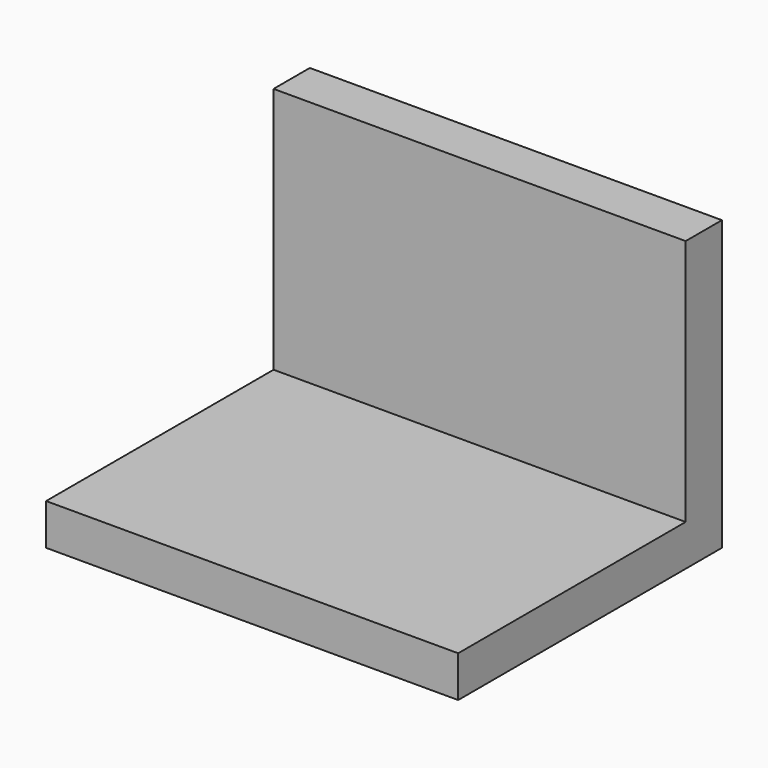
from build123d import *

# Parameters (mm, degrees)
F0_W     = 50
F0_H     = 5
F1_DEPTH = 40
F2_W     = 50
F2_H     = 5.500051
F3_DEPTH = 30


with BuildPart() as f1:
    # F0 (on Front) → F1 (new body)
    with BuildSketch(Plane.XZ):
        Rectangle(F0_W, F0_H)
    extrude(amount=F1_DEPTH)

    # F2 (on face) → F3 (join)
    with BuildSketch(Plane.XY.offset(2.5)):
        with Locations((0, -2.750026)):
            Rectangle(F2_W, F2_H)
    extrude(amount=F3_DEPTH)


solid = f1.part
